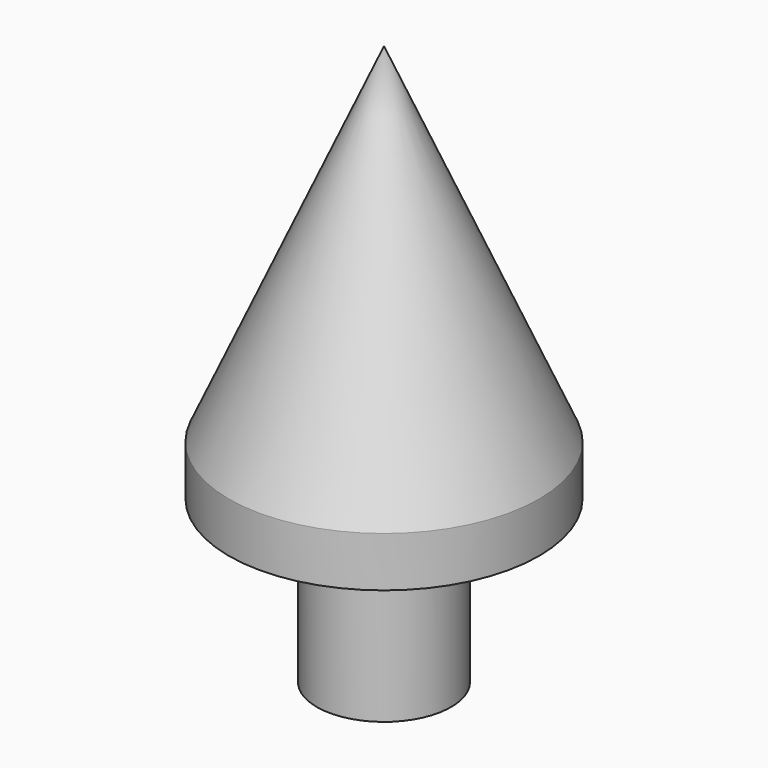
from build123d import *

# Parameters (mm, degrees)
F3_D     = 4.0386
F3_DEPTH = 15.24
F3_TIP   = 1.213317848


with BuildPart() as f1:
    # F0 (on Front) → F1 (revolve)
    with BuildSketch(Plane.XZ):
        Polygon((0, 0), (0, 33.02), (-9.144, 12.48156), (-9.144, 9.525), (-3.9624, 9.525), (-3.9624, 0), align=None)
    revolve(axis=Axis((0, 0, 16.51), (0, 0, 1)))

    # F3
    with Locations(Plane(origin=(0, 0, 0), x_dir=(1, 0, 0), z_dir=(0, 0, -1))):
        with Locations((0, 0)):
            Hole(F3_D / 2, depth=F3_DEPTH)
            with Locations((0, 0, -(F3_DEPTH + F3_TIP / 2))):  # 118° drill point
                Cone(0, F3_D / 2, F3_TIP, mode=Mode.SUBTRACT)


solid = f1.part
